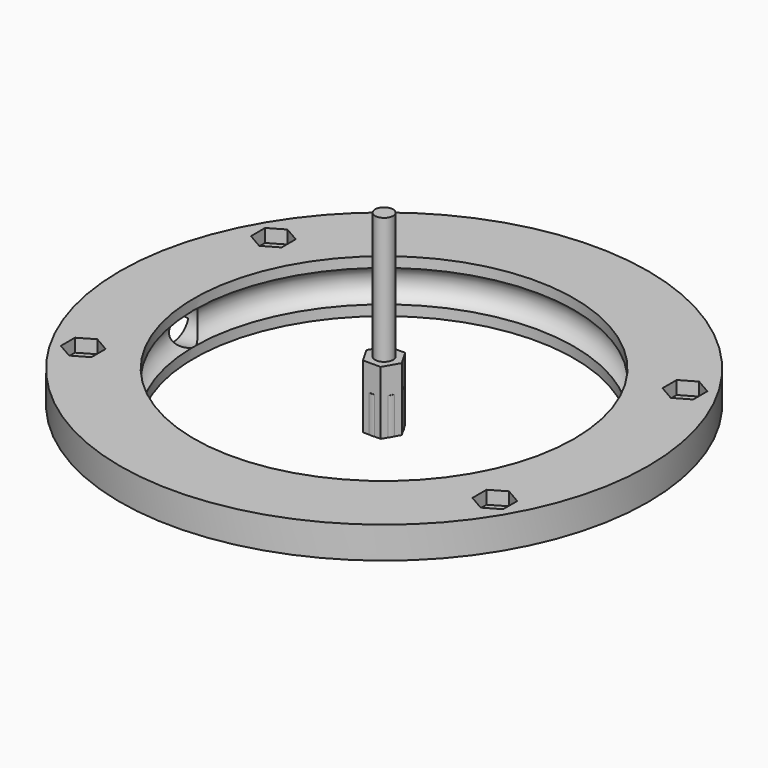
from build123d import *

# Parameters (mm, degrees)
CYLINDER_R               = 2.95
CYLINDER_DEPTH           = 7
CYLINDER001_R            = 1.7
CYLINDER001_DEPTH        = 30
PRISM_DEPTH              = 12
CLONE255_PLACEMENT_ANGLE = -90
CLONE258_PLACEMENT_ANGLE = 90
CLONE259_PLACEMENT_ANGLE = -90
CLONE256_PLACEMENT_ANGLE = 90
CLONE254_PLACEMENT_ANGLE = 90
CLONE257_PLACEMENT_ANGLE = -90
CLONE253_PLACEMENT_ANGLE = -90
CLONE252_PLACEMENT_ANGLE = 90


with BuildPart() as m3bolthead:
    # Cylinder → Cylinder (new body)
    with BuildSketch(Plane.XY):
        Circle(CYLINDER_R)
    extrude(amount=CYLINDER_DEPTH)


with BuildPart() as m3bolt:
    # Cylinder001 → Cylinder001 (new body)
    with BuildSketch(Plane.XY.offset(6)):
        Circle(CYLINDER001_R)
    extrude(amount=CYLINDER001_DEPTH)

    # Fusion: union M3BoltHead
    add(m3bolthead.part)


with BuildPart() as m3nut:
    # Prism → Prism (new body)
    with BuildSketch(Plane.XY):
        Polygon((3.35, 0), (1.675, 2.901185), (-1.675, 2.901185), (-3.35, 0), (-1.675, -2.901185), (1.675, -2.901185), align=None)
    extrude(amount=PRISM_DEPTH)


with BuildPart() as clone_of_m3bolt088:
    # Clone255 base: copy of M3Bolt
    add(m3bolt.part)


with BuildPart() as clone_of_m3bolt088_1:
    # Clone255 placement: moved
    add(clone_of_m3bolt088.part.moved(Location((-38.971143, 22.5, -20.5))).rotate(Axis((-38.971143, 22.5, -20.5), (0, 0, 1)), CLONE255_PLACEMENT_ANGLE))


with BuildPart() as clone_of_m3nut011:
    # Clone258 base: copy of M3Nut
    add(m3nut.part)


with BuildPart() as clone_of_m3nut011_1:
    # Clone258 placement: moved
    add(clone_of_m3nut011.part.moved(Location((38.971143, -22.5, 7.5))).rotate(Axis((38.971143, -22.5, 7.5), (0, 0, 1)), CLONE258_PLACEMENT_ANGLE))


with BuildPart() as clone_of_m3nut012:
    # Clone259 base: copy of M3Nut
    add(m3nut.part)


with BuildPart() as clone_of_m3nut012_1:
    # Clone259 placement: moved
    add(clone_of_m3nut012.part.moved(Location((-38.971143, 22.5, 7.5))).rotate(Axis((-38.971143, 22.5, 7.5), (0, 0, 1)), CLONE259_PLACEMENT_ANGLE))


with BuildPart() as clone_of_m3nut009:
    # Clone256 base: copy of M3Nut
    add(m3nut.part)


with BuildPart() as clone_of_m3nut009_1:
    # Clone256 placement: moved
    add(clone_of_m3nut009.part.moved(Location((38.971143, 22.5, 7.5))).rotate(Axis((38.971143, 22.5, 7.5), (0, 0, 1)), CLONE256_PLACEMENT_ANGLE))


with BuildPart() as clone_of_m3bolt087:
    # Clone254 base: copy of M3Bolt
    add(m3bolt.part)


with BuildPart() as clone_of_m3bolt087_1:
    # Clone254 placement: moved
    add(clone_of_m3bolt087.part.moved(Location((38.971143, -22.5, -20.5))).rotate(Axis((38.971143, -22.5, -20.5), (0, 0, 1)), CLONE254_PLACEMENT_ANGLE))


with BuildPart() as clone_of_m3nut010:
    # Clone257 base: copy of M3Nut
    add(m3nut.part)


with BuildPart() as clone_of_m3nut010_1:
    # Clone257 placement: moved
    add(clone_of_m3nut010.part.moved(Location((-38.971143, -22.5, 7.5))).rotate(Axis((-38.971143, -22.5, 7.5), (0, 0, 1)), CLONE257_PLACEMENT_ANGLE))


with BuildPart() as clone_of_m3bolt086:
    # Clone253 base: copy of M3Bolt
    add(m3bolt.part)


with BuildPart() as clone_of_m3bolt086_1:
    # Clone253 placement: moved
    add(clone_of_m3bolt086.part.moved(Location((-38.971143, -22.5, -20.5))).rotate(Axis((-38.971143, -22.5, -20.5), (0, 0, 1)), CLONE253_PLACEMENT_ANGLE))


with BuildPart() as fusion090:
    # Clone252 base: copy of M3Bolt
    add(m3bolt.part)


with BuildPart() as fusion090_1:
    # Clone252 placement: moved
    add(fusion090.part.moved(Location((38.971143, 22.5, -20.5))).rotate(Axis((38.971143, 22.5, -20.5), (0, 0, 1)), CLONE252_PLACEMENT_ANGLE))

    # Fusion090: union Clone of M3Bolt088, Clone of M3Nut011, Clone of M3Nut012, Clone of M3Nut009, Clone of M3Bolt087, Clone of M3Nut010, Clone of M3Bolt086
    add(clone_of_m3bolt088_1.part)
    add(clone_of_m3nut011_1.part)
    add(clone_of_m3nut012_1.part)
    add(clone_of_m3nut009_1.part)
    add(clone_of_m3bolt087_1.part)
    add(clone_of_m3nut010_1.part)
    add(clone_of_m3bolt086_1.part)


with BuildPart() as revolution010:
    # Sketch048 → Revolution010 (revolve)
    with BuildSketch(Plane(origin=(-51.5, 0, 5), x_dir=(1, 0, 0), z_dir=(0, -1, 0))):
        Polygon((0, 0), (0, 3.7), (11, 3.7), (16, 3), (16, 0), align=None)
    revolve(axis=Axis((-51.5, 0, 5), (1, 0, 0)))


with BuildPart() as obj1:
    # Sketch047 → Revolution009 (revolve)
    with BuildSketch(Plane.XZ):
        with BuildLine():
            Line((36, 1.960263), (36, 0))
            Line((36, 0), (40, 0))
            Line((40, 0), (40, 4))
            Line((40, 4), (50, 4))
            Line((50, 4), (50, 10))
            Line((50, 10), (36, 10))
            Line((36, 10), (36, 8.039737))
            ThreePointArc((36, 1.960263), (38.2, 5), (36, 8.039737))
        make_face()
    revolve(axis=Axis((0, 0, 0), (0, 0, 1)))

    # Cut077: cut Revolution010
    add(revolution010.part, mode=Mode.SUBTRACT)

    # Cut078: cut Fusion090
    add(fusion090_1.part, mode=Mode.SUBTRACT)


solid = Compound([m3bolt.part, m3nut.part, obj1.part])
